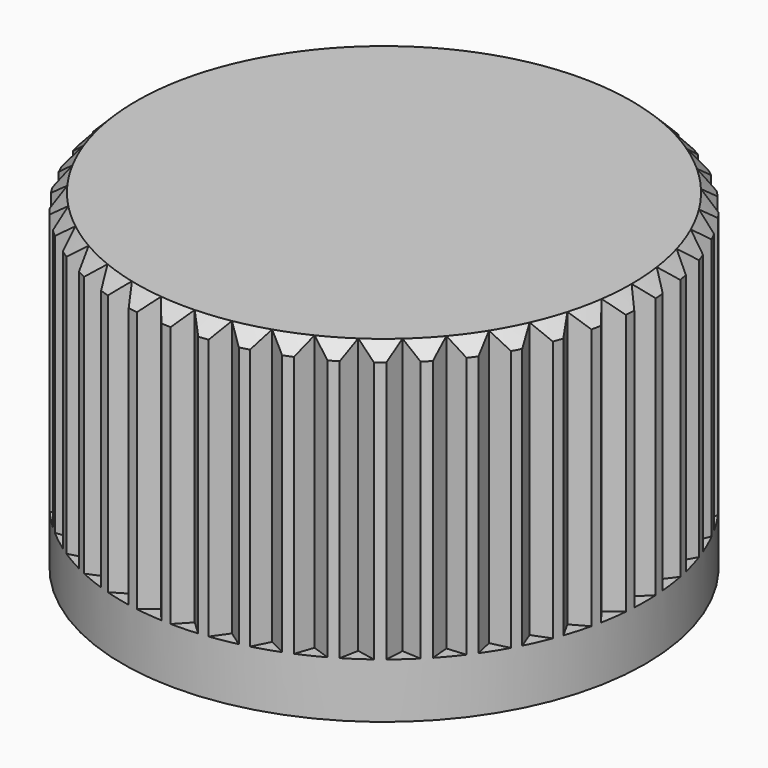
from build123d import *

# Parameters (mm, degrees)
BOX_W               = 2
BOX_H               = 2
BOX_DEPTH           = 10
BOX_PLACEMENT_ANGLE = 315
ARRAY_COUNT         = 45
CYLINDER001_R       = 8
CYLINDER001_DEPTH   = 12
CYLINDER_R          = 9.5
CYLINDER_DEPTH      = 12
CHAMFER_SIZE        = 0.5


with BuildPart() as array:
    # Box → Box (new body)
    with BuildSketch(Plane.XY):
        with Locations((1, 1)):
            Rectangle(BOX_W, BOX_H)
    extrude(amount=BOX_DEPTH)


with BuildPart() as array_1:
    # Box placement: moved
    add(array.part.moved(Location((9, 0, 47))).rotate(Axis((9, 0, 47), (0, 0, 1)), BOX_PLACEMENT_ANGLE))

    # Array: Array ×45 about axis
    array_axis = Axis((0, 0, 0), (0, 0, 1))


with BuildPart() as array_2:
    add(array_1.part)
    for i in range(1, ARRAY_COUNT):
        add(array_1.part.rotate(array_axis, i * 360 / ARRAY_COUNT))


with BuildPart() as cup_hole:
    # Cylinder001 → Cylinder001 (new body)
    with BuildSketch(Plane.XY.offset(44)):
        Circle(CYLINDER001_R)
    extrude(amount=CYLINDER001_DEPTH)


with BuildPart() as obj1:
    # Cylinder → Cylinder (new body)
    with BuildSketch(Plane.XY.offset(45)):
        Circle(CYLINDER_R)
    extrude(amount=CYLINDER_DEPTH)

    # Cut: cut Cup hole
    add(cup_hole.part, mode=Mode.SUBTRACT)

    # Chamfer
    chamfer_edges = [obj1.edges().sort_by_distance(p)[0] for p in [
        (-9.5, 0, 57),
    ]]
    chamfer(chamfer_edges, length=CHAMFER_SIZE)

    # Cut001: cut Array
    add(array_2.part, mode=Mode.SUBTRACT)


solid = obj1.part
